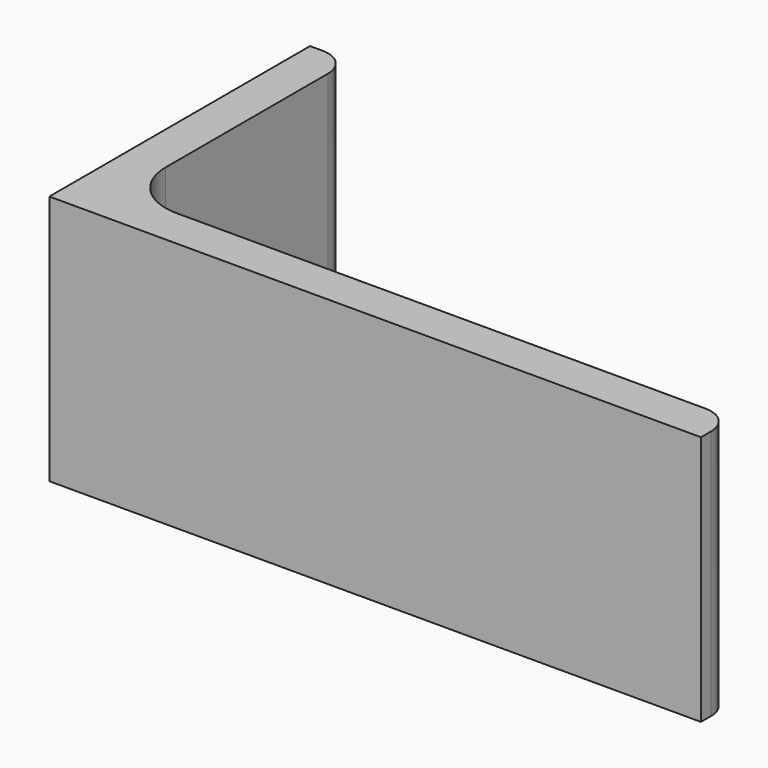
from build123d import *

# Parameters (mm, degrees)
EXTRUDE_DEPTH = 50


with BuildPart() as part:
    # Sketch → Extrude (new body)
    with BuildSketch(Plane.XY):
        with BuildLine():
            Line((0, 0), (130, 0))
            Line((130, 0), (130, 2.5))
            ThreePointArc((130, 2.5), (128.389087, 6.389087), (124.5, 8))
            Line((124.5, 8), (19, 8))
            ThreePointArc((8, 19), (11.221825, 11.221825), (19, 8))
            Line((8, 59.5), (8, 19))
            ThreePointArc((8, 59.5), (6.389087, 63.389087), (2.5, 65))
            Line((0, 65), (2.5, 65))
            Line((0, 0), (0, 65))
        make_face()
    extrude(amount=EXTRUDE_DEPTH)


solid = part.part
